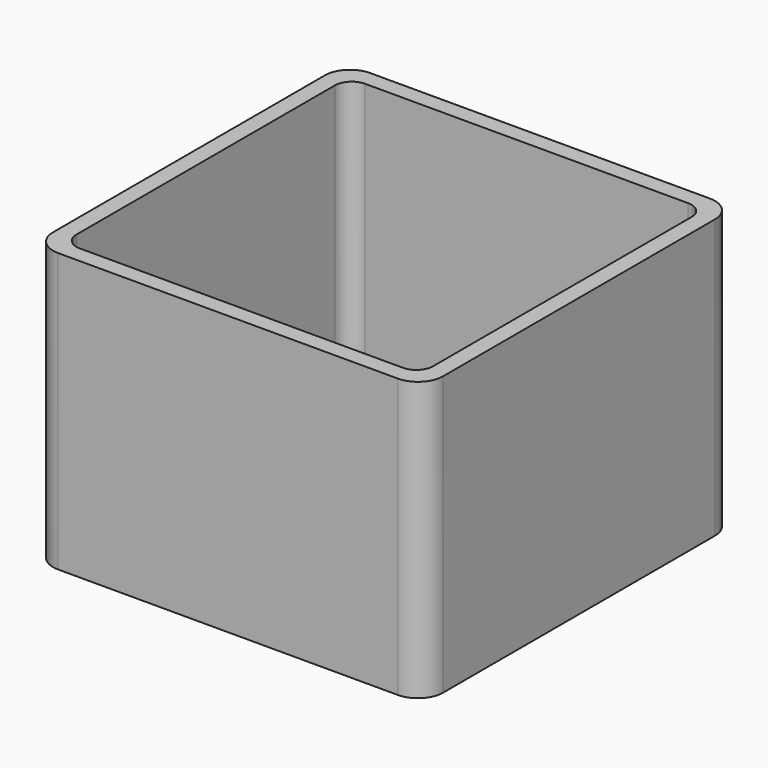
from build123d import *

# Parameters (mm, degrees)
EXTRUDE_DEPTH = 50


with BuildPart() as part:
    # Sketch → Extrude (new body)
    with BuildSketch(Plane.XY):
        with BuildLine():
            Line((-30.5, 35), (30.5, 35))
            ThreePointArc((35, 30.5), (33.681981, 33.681981), (30.5, 35))
            Line((35, 30.5), (35, -30.5))
            ThreePointArc((30.5, -35), (33.681981, -33.681981), (35, -30.5))
            Line((30.5, -35), (-30.5, -35))
            ThreePointArc((-35, -30.5), (-33.681981, -33.681981), (-30.5, -35))
            Line((-35, -30.5), (-35, 30.5))
            ThreePointArc((-30.5, 35), (-33.681981, 33.681981), (-35, 30.5))
        make_face()
        with BuildLine():
            Line((-29, 32), (29, 32))
            ThreePointArc((32, 29), (31.12132, 31.12132), (29, 32))
            Line((32, 29), (32, -29))
            ThreePointArc((29, -32), (31.12132, -31.12132), (32, -29))
            Line((29, -32), (-29, -32))
            ThreePointArc((-32, -29), (-31.12132, -31.12132), (-29, -32))
            Line((-32, -29), (-32, 29))
            ThreePointArc((-29, 32), (-31.12132, 31.12132), (-32, 29))
        make_face(mode=Mode.SUBTRACT)
    extrude(amount=EXTRUDE_DEPTH)


solid = part.part
